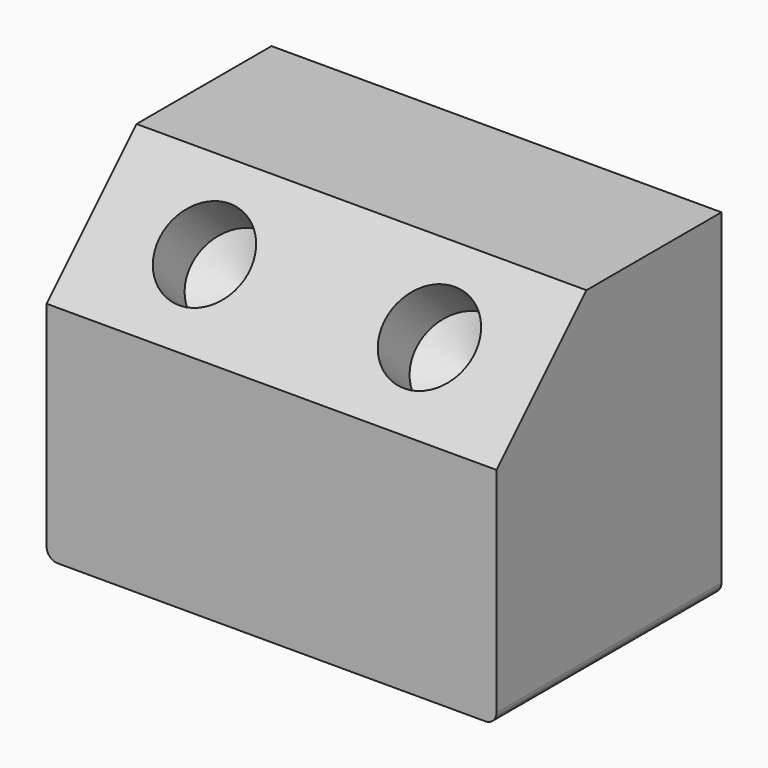
from build123d import *

# Parameters (mm, degrees)
F0_W     = 80
F0_H     = 50
F1_DEPTH = 60
F2_SIZE  = 20
F4_D     = 16
F4_DEPTH = 10
F4_TIP   = 4.8068849522
F5_R     = 2
F6_R     = 2


with BuildPart() as f1:
    # F0 (on Top) → F1 (new body)
    with BuildSketch(Plane.XY):
        with Locations((40, 25)):
            Rectangle(F0_W, F0_H)
    extrude(amount=F1_DEPTH)

    # F2
    f2_edges = [f1.edges().sort_by_distance(p)[0] for p in [
        (40, 0, 60),
    ]]
    chamfer(f2_edges, length=F2_SIZE)

    # F4
    with Locations(Plane(origin=(0, -20, 20), x_dir=(1, 0, 0), z_dir=(0, -0.7071067812, 0.7071067812))):
        with Locations((20, 42.5685424949), (60, 42.5685424949)):
            Hole(F4_D / 2, depth=F4_DEPTH)
            with Locations((0, 0, -(F4_DEPTH + F4_TIP / 2))):  # 118° drill point
                Cone(0, F4_D / 2, F4_TIP, mode=Mode.SUBTRACT)

    # F5
    f5_edges = [f1.edges().sort_by_distance(p)[0] for p in [
        (80, 25, 0),
    ]]
    fillet(f5_edges, radius=F5_R)

    # F6
    f6_edges = [f1.edges().sort_by_distance(p)[0] for p in [
        (0, 25, 0),
    ]]
    fillet(f6_edges, radius=F6_R)


solid = f1.part
